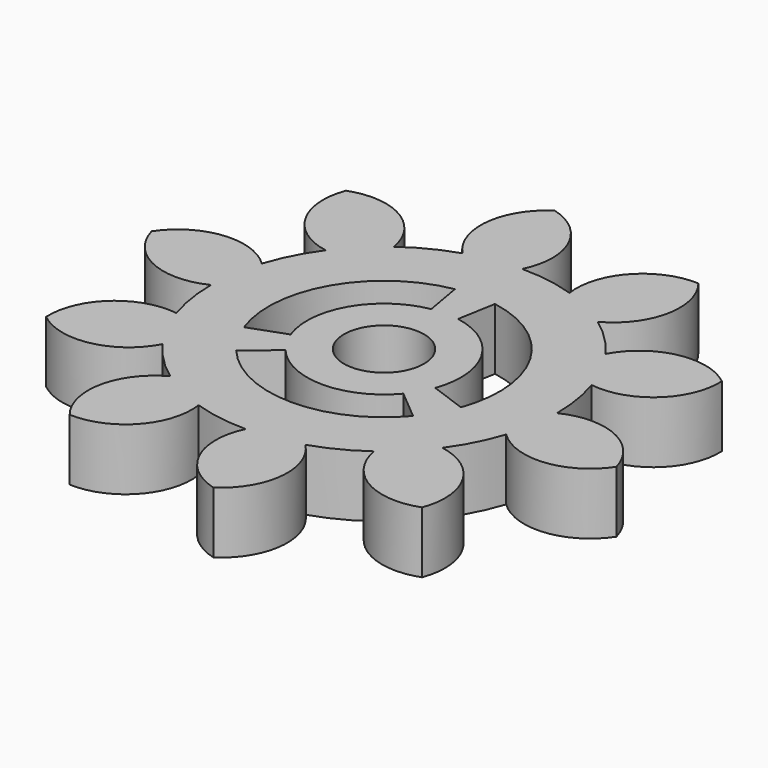
from build123d import *

# Parameters (mm, degrees)
F0_R      = 14.2875
F1_DEPTH  = 5.08
F3_DEPTH  = 5.08
F4_COUNT  = 10
F5_R      = 9.525
F6_DEPTH  = 5.081
F7_DEPTH  = 5.081
F9_DEPTH  = 5.08
F10_COUNT = 3
F11_R     = 3.302
F12_DEPTH = 5.081


with BuildPart() as f1:
    # F0 (on Top) → F1 (new body)
    with BuildSketch(Plane.XY):
        Circle(F0_R)
    extrude(amount=F1_DEPTH)

    # F4: F3 ×10 about axis
    f4_axis = Axis((0, 0, 5.08), (0, 0, 1))


with BuildPart() as f3:
    # F2 (on face) → F3 (new body, through all)
    with BuildSketch(Plane.XY.offset(5.08)):
        with BuildLine():
            Line((-4.393811939, 13.5947116911), (-0.0222334703, 14.2871017002))
            ThreePointArc((-0.0222334703, 14.2871017002), (0.0536070974, 18.934616917), (-3.4776602758, 21.957082834))
            ThreePointArc((-3.4776602758, 21.957082834), (-5.9021017886, 17.9913252983), (-4.393811939, 13.5947116911))
        make_face()
    extrude(amount=-F3_DEPTH)


with BuildPart() as f1_1:
    add(f1.part)
    for i in range(1, F4_COUNT):
        add(f3.part.rotate(f4_axis, i * 360 / F4_COUNT))

    # F5 (on face) → F6 (cut, through all)
    with BuildSketch(Plane.XY.offset(5.08)):
        Circle(F5_R)
    extrude(amount=-F6_DEPTH, mode=Mode.SUBTRACT)

    # F5 (on face) → F7 (cut, through all)
    with BuildSketch(Plane.XY.offset(5.08)):
        Circle(F5_R)
    extrude(amount=-F7_DEPTH, mode=Mode.SUBTRACT)



with BuildPart() as f9:
    # F8 (on face) → F9 (new body, through all)
    with BuildSketch(Plane.XY.offset(5.08)):
        with BuildLine():
            Line((-1.6539988923, 9.3802938474), (-1.1026659282, 6.2535292316))
            ThreePointArc((-1.1026659282, 6.2535292316), (0, -6.35), (1.1026659282, 6.2535292316))
            Line((1.1026659282, 6.2535292316), (1.6539988923, 9.3802938474))
            ThreePointArc((1.6539988923, 9.3802938474), (0, 9.525), (-1.6539988923, 9.3802938474))
        make_face()
    extrude(amount=-F9_DEPTH)


with BuildPart() as f1_2:
    add(f1_1.part)

    add(f3.part)  # F10 merges F3

    add(f9.part)  # F10 merges F9
    # F10: F9 ×3 about axis
    f10_axis = Axis((0, 0, 5.08), (0, 0, 1))
    for i in range(1, F10_COUNT):
        add(f9.part.rotate(f10_axis, i * 360 / F10_COUNT))

    # F11 (on face) → F12 (cut, through all)
    with BuildSketch(Plane.XY.offset(5.08)):
        Circle(F11_R)
    extrude(amount=-F12_DEPTH, mode=Mode.SUBTRACT)


solid = f1_2.part
